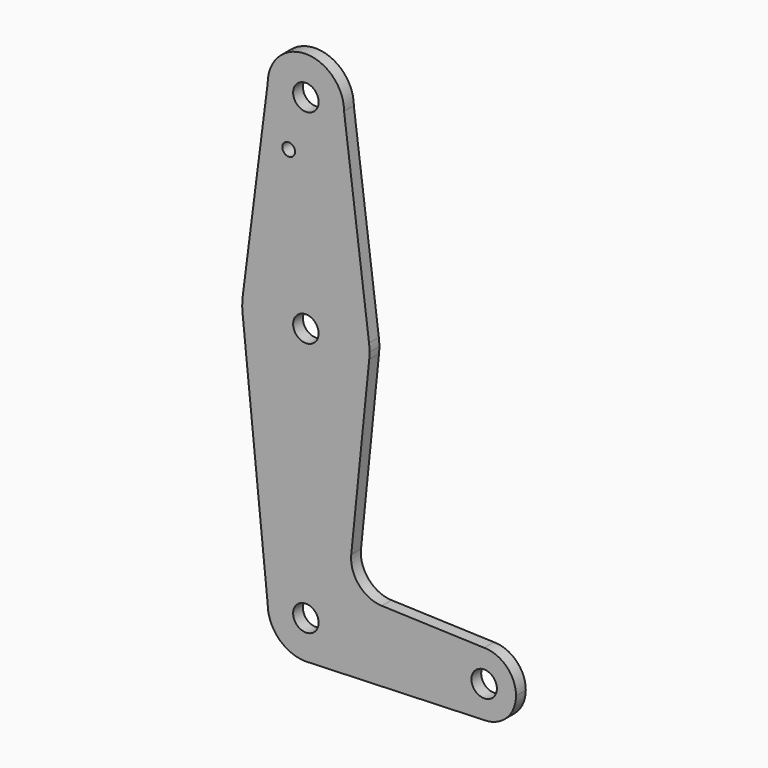
from build123d import *

# Parameters (mm, degrees)
F0_R     = 3.175
F0_R_2   = 1.5875
F1_DEPTH = 3.048


with BuildPart() as f1:
    # F0 (on Front) → F1 (new body)
    with BuildSketch(Plane.XZ):
        with BuildLine():
            ThreePointArc((-43.354734, 68.426579), (-33.829734, 58.901579), (-24.304734, 68.426579))
            ThreePointArc((-24.304734, 68.426579), (-33.829734, 77.951579), (-43.354734, 68.426579))
        make_face()
        with Locations((-33.829734, 68.426579)):
            Circle(F0_R, mode=Mode.SUBTRACT)
        with BuildLine():
            Line((-18.082277, 19.634868), (-24.304734, 68.426579))
            ThreePointArc((-24.304734, 68.426579), (-33.829734, 58.901579), (-43.354734, 68.426579))
            Line((-43.354734, 68.426579), (-49.577191, 19.634868))
            ThreePointArc((-49.577191, 19.634868), (-33.829734, 33.501579), (-18.082277, 19.634868))
        make_face()
        with Locations((-38.1127, 55.587258)):
            Circle(F0_R_2, mode=Mode.SUBTRACT)
        with BuildLine():
            ThreePointArc((-17.954734, 17.626579), (-17.986652, 18.632746), (-18.082277, 19.634868))
            ThreePointArc((-18.082277, 19.634868), (-33.829734, 33.501579), (-49.577191, 19.634868))
            ThreePointArc((-49.577191, 19.634868), (-49.703401, 17.832246), (-49.623937, 16.026959))
            ThreePointArc((-49.623937, 16.026959), (-33.829734, 1.751579), (-18.035531, 16.026959))
            ThreePointArc((-18.035531, 16.026959), (-17.974946, 16.825749), (-17.954734, 17.626579))
        make_face()
        with Locations((-33.829734, 17.626579)):
            Circle(F0_R, mode=Mode.SUBTRACT)
        with BuildLine():
            ThreePointArc((-18.035531, 16.026959), (-33.829734, 1.751579), (-49.623937, 16.026959))
            Line((-49.623937, 16.026959), (-43.354734, -45.873421))
            ThreePointArc((-43.354734, -45.873421), (-33.829734, -36.348421), (-24.304734, -45.873421))
            ThreePointArc((-24.304734, -45.873421), (-26.858444, -52.363933), (-33.150243, -55.374154))
            Line((-33.150243, -55.374154), (10.620266, -53.810921))
            ThreePointArc((10.620266, -53.810921), (2.682766, -45.873421), (10.620266, -37.935921))
            Line((10.620266, -37.935921), (-14.896745, -37.0246))
            ThreePointArc((-14.896745, -37.0246), (-20.605271, -34.304237), (-22.522727, -28.278376))
            Line((-22.522727, -28.278376), (-18.035531, 16.026959))
        make_face()
        with BuildLine():
            ThreePointArc((-24.304734, -45.873421), (-33.829734, -36.348421), (-43.354734, -45.873421))
            ThreePointArc((-43.354734, -45.873421), (-40.564926, -52.608614), (-33.829734, -55.398421))
            Line((-33.829734, -55.398421), (-33.150243, -55.374154))
            ThreePointArc((-33.150243, -55.374154), (-26.858444, -52.363933), (-24.304734, -45.873421))
        make_face()
        with Locations((-33.829734, -45.873421)):
            Circle(F0_R, mode=Mode.SUBTRACT)
        with BuildLine():
            Line((-33.150243, -55.374154), (-33.829734, -55.398421))
            ThreePointArc((-33.829734, -55.398421), (-33.489772, -55.392353), (-33.150243, -55.374154))
        make_face()
        with BuildLine():
            ThreePointArc((18.557766, -45.873421), (16.232926, -40.260761), (10.620266, -37.935921))
            ThreePointArc((10.620266, -37.935921), (2.682766, -45.873421), (10.620266, -53.810921))
            ThreePointArc((10.620266, -53.810921), (16.232926, -51.486082), (18.557766, -45.873421))
        make_face()
        with Locations((10.620266, -45.873421)):
            Circle(F0_R, mode=Mode.SUBTRACT)
    extrude(amount=F1_DEPTH)


solid = f1.part
